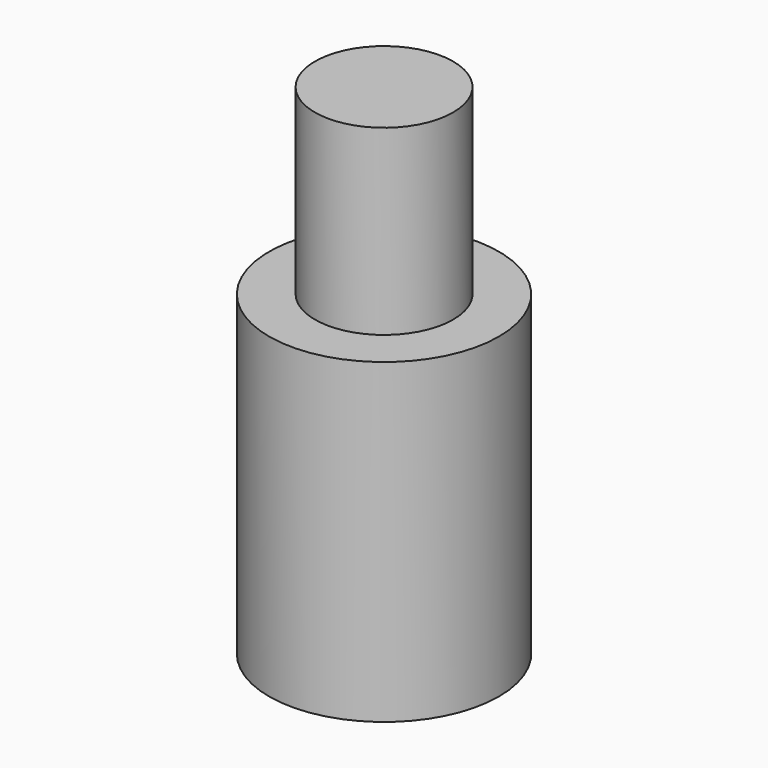
from build123d import *

# Parameters (mm, degrees)
F0_W     = 32.2704985738
F0_H     = 88.960390538
F2_R     = 19.3987912373
F3_DEPTH = 51.2


with BuildPart() as f1:
    # F0 (on Front) → F1 (revolve)
    with BuildSketch(Plane.XZ):
        with Locations((16.1352492869, -0.2108048648)):
            Rectangle(F0_W, F0_H)
        with Locations((16.1352492869, -0.2108048648)):
            Rectangle(F0_W, F0_H)
    revolve(axis=Axis((0, 0, -0.2108048648), (0, 0, -1)))

    # F2 (on face) → F3 (join)
    with BuildSketch(Plane.XY.offset(44.2693904042)):
        Circle(F2_R)
    extrude(amount=F3_DEPTH)


solid = f1.part
